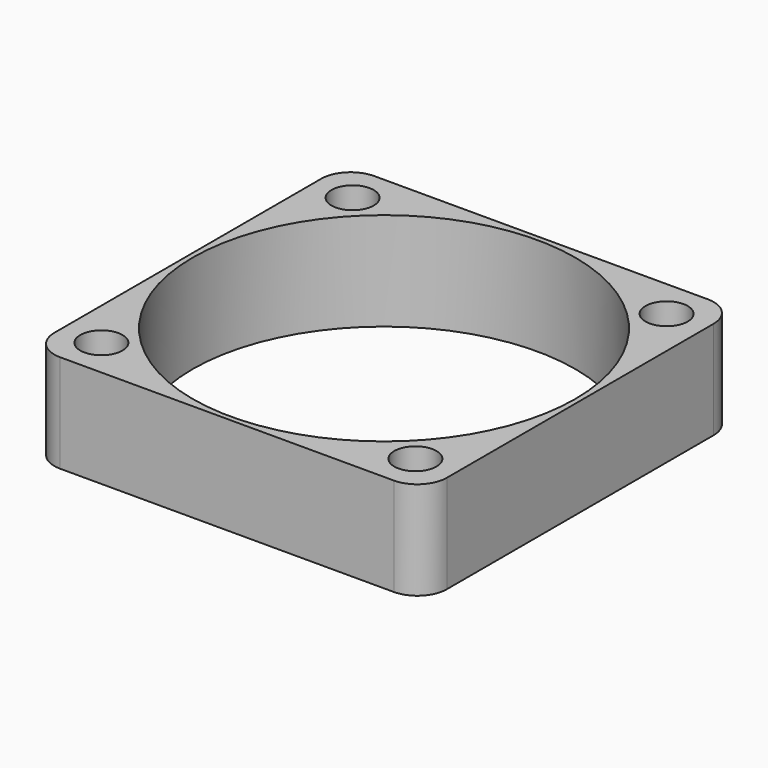
from build123d import *

# Parameters (mm, degrees)
F0_W     = 40
F0_H     = 40
F0_R     = 2.15
F0_R_2   = 19.5
F1_DEPTH = 10
F2_R     = 3


with BuildPart() as f1:
    # F0 (on Top) → F1 (new body)
    with BuildSketch(Plane.XY):
        with Locations((-20, 20)):
            Rectangle(F0_W, F0_H)
        with Locations((-36, 4)):
            Circle(F0_R, mode=Mode.SUBTRACT)
        with Locations((-4, 4)):
            Circle(F0_R, mode=Mode.SUBTRACT)
        with Locations((-36, 36)):
            Circle(F0_R, mode=Mode.SUBTRACT)
        with Locations((-20, 20)):
            Circle(F0_R_2, mode=Mode.SUBTRACT)
        with Locations((-4, 36)):
            Circle(F0_R, mode=Mode.SUBTRACT)
    extrude(amount=F1_DEPTH)

    # F2
    f2_edges = [f1.edges().sort_by_distance(p)[0] for p in [
        (0, 0, 5),
        (0, 40, 5),
        (-40, 40, 5),
        (-40, 0, 5),
    ]]
    fillet(f2_edges, radius=F2_R)


solid = f1.part
